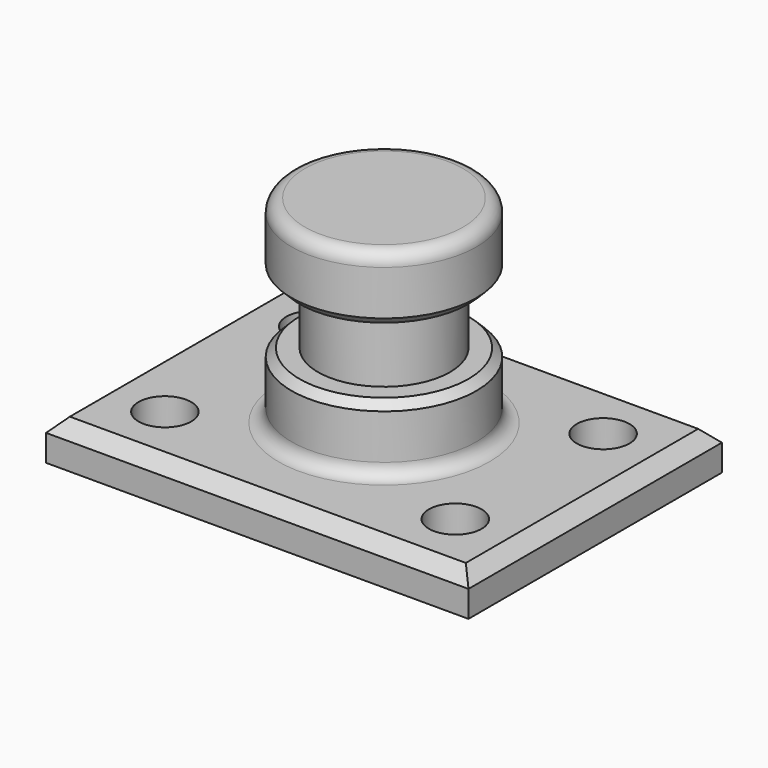
from build123d import *

# Parameters (mm, degrees)
F0_W     = 203.2
F0_H     = 152.4
F1_DEPTH = 19.05
F2_SIZE  = 6.35
F4_D     = 25.4
F5_W     = 31.75
F5_H     = 31.75
F7_R     = 6.35
F8_SIZE  = 3.81


with BuildPart() as f1:
    # F0 (on Top) → F1 (new body)
    with BuildSketch(Plane.XY):
        Rectangle(F0_W, F0_H)
    extrude(amount=F1_DEPTH)

    # F2
    f2_edges = [f1.edges().sort_by_distance(p)[0] for p in [
        (0, -76.2, 19.05),
        (101.6, 0, 19.05),
        (-101.6, 0, 19.05),
        (0, 76.2, 19.05),
    ]]
    chamfer(f2_edges, length=F2_SIZE)

    # F4 (through all)
    with Locations(Plane.XY.offset(19.05)):
        with Locations((-69.85, 44.45), (69.85, 44.45), (69.85, -44.45), (-69.85, -44.45)):
            Hole(F4_D / 2)

    # F5 (on Front) → F6 (revolve)
    with BuildSketch(Plane.XZ):
        Polygon((0, 114.3), (0, 82.55), (31.75, 82.55), (44.45, 82.55), (44.45, 114.3), align=None)
        with Locations((15.875, 66.675)):
            Rectangle(F5_W, F5_H)
        Polygon((31.75, 50.8), (0, 50.8), (0, 19.05), (44.45, 19.05), (44.45, 50.8), align=None)
    revolve(axis=Axis((0, 0, 34.925), (0, 0, -1)))

    # F7
    f7_edges = [f1.edges().sort_by_distance(p)[0] for p in [
        (-44.45, 0, 114.3),
        (-44.45, 0, 19.05),
    ]]
    fillet(f7_edges, radius=F7_R)

    # F8
    f8_edges = [f1.edges().sort_by_distance(p)[0] for p in [
        (-44.45, 0, 50.8),
        (-44.45, 0, 82.55),
    ]]
    chamfer(f8_edges, length=F8_SIZE)


solid = f1.part
